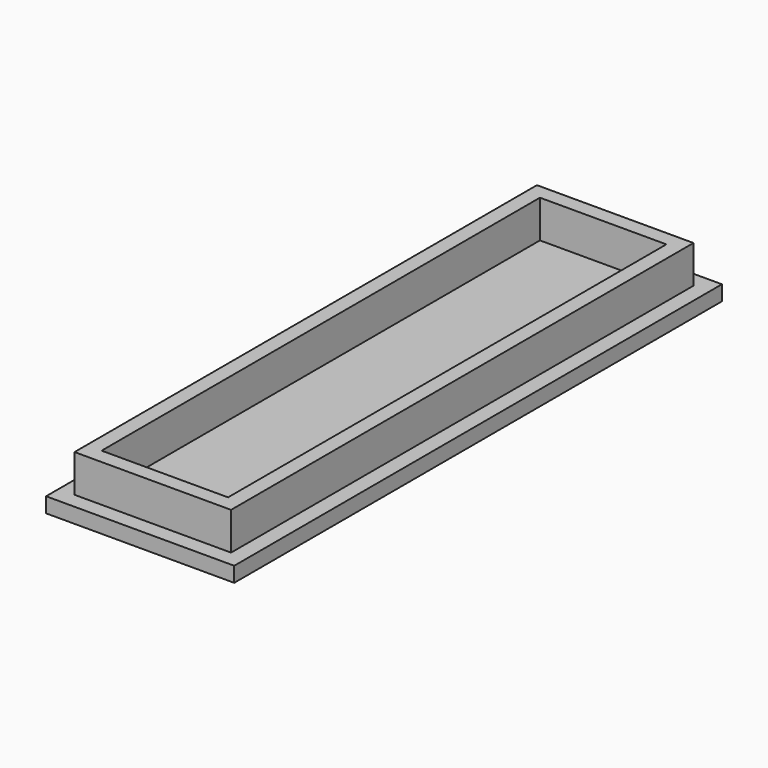
from build123d import *

# Parameters (mm, degrees)
F0_W     = 25
F0_H     = 81
F1_DEPTH = 2
F2_W     = 20.8
F2_H     = 76.8
F2_W_2   = 16.8
F2_H_2   = 72.8
F3_DEPTH = 5


with BuildPart() as f1:
    # F0 (on Top) → F1 (new body)
    with BuildSketch(Plane.XY):
        with Locations((12.5, 40.5)):
            Rectangle(F0_W, F0_H)
    extrude(amount=-F1_DEPTH)

    # F2 (on Top) → F3 (join)
    with BuildSketch(Plane.XY):
        with Locations((12.5, 40.5)):
            Rectangle(F2_W, F2_H)
        with Locations((12.5, 40.5)):
            Rectangle(F2_W_2, F2_H_2, mode=Mode.SUBTRACT)
    extrude(amount=F3_DEPTH)


solid = f1.part
